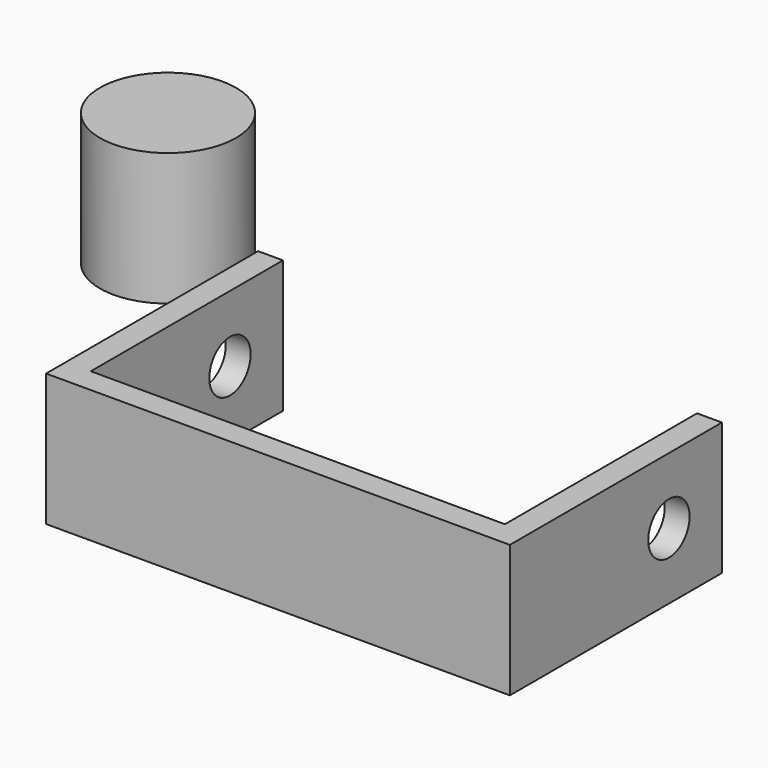
from build123d import *

# Parameters (mm, degrees)
F1_DEPTH = 25.4
F2_R     = 4.953
F3_DEPTH = 88.901
F4_R     = 13.045799
F5_DEPTH = 25.4


with BuildPart() as f1:
    # F0 (on Top) → F1 (new body)
    with BuildSketch(Plane.XY):
        Polygon((-44.45, 0), (44.45, 0), (44.45, 50.8), (39.6875, 50.8), (39.6875, 4.7625), (-39.6875, 4.7625), (-39.6875, 50.8), (-44.45, 50.8), align=None)
    extrude(amount=F1_DEPTH)

    # F2 (on face) → F3 (cut, through all)
    with BuildSketch(Plane(origin=(-44.45, 0, 0), x_dir=(0, -1, 0), z_dir=(-1, 0, 0))):
        with Locations((-38.1, 12.7)):
            Circle(F2_R)
    extrude(amount=-F3_DEPTH, mode=Mode.SUBTRACT)


with BuildPart() as f5:
    # F4 (on Top) → F5 (new body)
    with BuildSketch(Plane.XY):
        with Locations((-82.991563, 77.380843)):
            Circle(F4_R)
    extrude(amount=F5_DEPTH)


solid = Compound([f1.part, f5.part])
